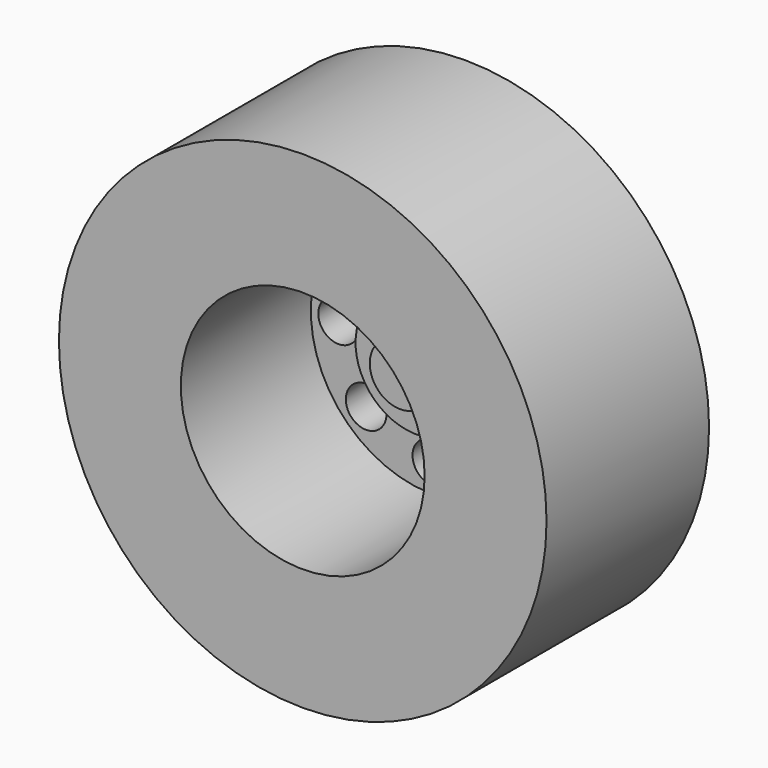
from build123d import *

# Parameters (mm, degrees)
F0_R      = 19.05
F1_DEPTH  = 15.875
F2_R      = 9.525
F3_DEPTH  = 12.7
F5_R      = 1.5875
F6_DEPTH  = 25.4
F7_R      = 1.582292
F8_DEPTH  = 25.4
F9_R      = 1.5875
F10_DEPTH = 25.4
F11_R     = 1.5875
F12_DEPTH = 25.4
F13_R     = 1.5875
F14_DEPTH = 25.4
F15_R     = 1.5875
F16_DEPTH = 25.4
F17_R     = 1.5875
F18_DEPTH = 25.4
F19_R     = 1.5875
F20_DEPTH = 25.4
F21_R     = 4.7625
F22_DEPTH = 1.5875
F23_R     = 2.38125
F24_DEPTH = 1.5875
F26_R     = 18.052575
F26_R_2   = 9.68479
F27_DEPTH = 13.462
F28_R     = 3.175
F29_DEPTH = 9.652
F30_R     = 1.5875
F31_DEPTH = 10.668


with BuildPart() as f1:
    # F0 (on Front) → F1 (new body)
    with BuildSketch(Plane.XZ):
        Circle(F0_R)
    extrude(amount=-F1_DEPTH)

    # F2 (on face) → F3 (cut)
    with BuildSketch(Plane.XZ):
        Circle(F2_R)
    extrude(amount=-F3_DEPTH, mode=Mode.SUBTRACT)

    # F5 (on face) → F6 (cut)
    with BuildSketch(Plane.XZ.offset(-12.7)):
        with Locations((0, 7.420709)):
            Circle(F5_R)
    extrude(amount=-F6_DEPTH, mode=Mode.SUBTRACT)

    # F7 (on face) → F8 (cut)
    with BuildSketch(Plane.XZ.offset(-12.7)):
        with Locations((0, -7.351812)):
            Circle(F7_R)
    extrude(amount=-F8_DEPTH, mode=Mode.SUBTRACT)

    # F9 (on face) → F10 (cut)
    with BuildSketch(Plane.XZ.offset(-12.7)):
        with Locations((-7.360636, 0)):
            Circle(F9_R)
    extrude(amount=-F10_DEPTH, mode=Mode.SUBTRACT)

    # F11 (on face) → F12 (cut)
    with BuildSketch(Plane.XZ.offset(-12.7)):
        with Locations((7.366985, 0)):
            Circle(F11_R)
    extrude(amount=-F12_DEPTH, mode=Mode.SUBTRACT)

    # F13 (on face) → F14 (cut)
    with BuildSketch(Plane.XZ.offset(-12.7)):
        with Locations((-5.115572, 5.085843)):
            Circle(F13_R)
    extrude(amount=-F14_DEPTH, mode=Mode.SUBTRACT)

    # F15 (on face) → F16 (cut)
    with BuildSketch(Plane.XZ.offset(-12.7)):
        with Locations((5.301525, 5.085843)):
            Circle(F15_R)
    extrude(amount=-F16_DEPTH, mode=Mode.SUBTRACT)

    # F17 (on face) → F18 (cut)
    with BuildSketch(Plane.XZ.offset(-12.7)):
        with Locations((-5.205374, -5.196551)):
            Circle(F17_R)
    extrude(amount=-F18_DEPTH, mode=Mode.SUBTRACT)

    # F19 (on face) → F20 (cut)
    with BuildSketch(Plane.XZ.offset(-12.7)):
        with Locations((5.166822, -5.016946)):
            Circle(F19_R)
    extrude(amount=-F20_DEPTH, mode=Mode.SUBTRACT)

    # F21 (on face) → F22 (join)
    with BuildSketch(Plane.XZ.offset(-12.7)):
        Circle(F21_R)
    extrude(amount=F22_DEPTH)

    # F23 (on face) → F24 (join)
    with BuildSketch(Plane.XZ.offset(-11.1125)):
        Circle(F23_R)
    extrude(amount=F24_DEPTH)

    # F26 (on face) → F27 (cut)
    with BuildSketch(Plane(origin=(0, 15.875, 0), x_dir=(-1, 0, 0), z_dir=(0, 1, 0))):
        Circle(F26_R)
        Circle(F26_R_2, mode=Mode.SUBTRACT)
    extrude(amount=-F27_DEPTH, mode=Mode.SUBTRACT)

    # F28 (on face) → F29 (join)
    with BuildSketch(Plane(origin=(0, 15.875, 0), x_dir=(-1, 0, 0), z_dir=(0, 1, 0))):
        Circle(F28_R)
    extrude(amount=F29_DEPTH)

    # F30 (on face) → F31 (cut)
    with BuildSketch(Plane(origin=(0, 25.527, 0), x_dir=(-1, 0, 0), z_dir=(0, 1, 0))):
        Circle(F30_R)
    extrude(amount=-F31_DEPTH, mode=Mode.SUBTRACT)


solid = f1.part
